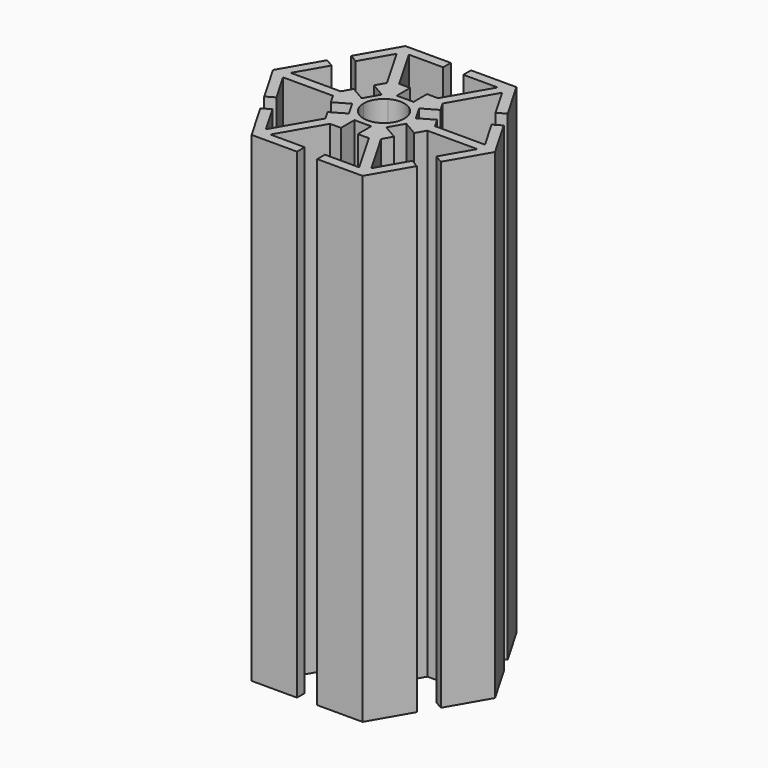
from build123d import *

# Parameters (mm, degrees)
F1_DEPTH = 100


with BuildPart() as f1:
    # F0 (on Top) → F1 (new body)
    with BuildSketch(Plane.XY):
        Polygon((16.270508, 11.818653), (11.547005, 20), (2.1, 20), (2.1, 18), (9.237604, 18), (4.041452, 9), (1.75, 9), (1.75, 5.5), (-1.75, 5.5), (-1.75, 9), (-4.041452, 9), (-9.237604, 18), (-2.1, 18), (-2.1, 20), (-11.547005, 20), (-16.270508, 11.818653), (-14.538457, 10.818653), (-10.969655, 17), (-5.773503, 8), (-6.919229, 6.015544), (-3.88814, 4.265544), (-5.63814, 1.234456), (-8.669229, 2.984456), (-9.814955, 1), (-20.207259, 1), (-16.638457, 7.181347), (-18.370508, 8.181347), (-23.094011, 0), (-18.370508, -8.181347), (-16.638457, -7.181347), (-20.207259, -1), (-9.814955, -1), (-8.669229, -2.984456), (-5.63814, -1.234456), (-3.88814, -4.265544), (-6.919229, -6.015544), (-5.773503, -8), (-10.969655, -17), (-14.538457, -10.818653), (-16.270508, -11.818653), (-11.547005, -20), (-2.1, -20), (-2.1, -18), (-9.237604, -18), (-4.041452, -9), (-1.75, -9), (-1.75, -5.5), (1.75, -5.5), (1.75, -9), (4.041452, -9), (9.237604, -18), (2.1, -18), (2.1, -20), (11.547005, -20), (16.270508, -11.818653), (14.538457, -10.818653), (10.969655, -17), (5.773503, -8), (6.919229, -6.015544), (3.88814, -4.265544), (5.63814, -1.234456), (8.669229, -2.984456), (9.814955, -1), (20.207259, -1), (16.638457, -7.181347), (18.370508, -8.181347), (23.094011, 0), (18.370508, 8.181347), (16.638457, 7.181347), (20.207259, 1), (9.814955, 1), (8.669229, 2.984456), (5.63814, 1.234456), (3.88814, 4.265544), (6.919229, 6.015544), (5.773503, 8), (10.969655, 17), (14.538457, 10.818653), align=None)
        with BuildLine():
            ThreePointArc((-2.125, 3.680608), (0, 4.25), (2.125, 3.680608))
            ThreePointArc((2.125, 3.680608), (3.680608, 2.125), (4.25, 0))
            ThreePointArc((4.25, 0), (3.680608, -2.125), (2.125, -3.680608))
            ThreePointArc((2.125, -3.680608), (0, -4.25), (-2.125, -3.680608))
            ThreePointArc((-2.125, -3.680608), (-3.680608, -2.125), (-4.25, 0))
            ThreePointArc((-4.25, 0), (-3.680608, 2.125), (-2.125, 3.680608))
        make_face(mode=Mode.SUBTRACT)
    extrude(amount=F1_DEPTH)


solid = f1.part
